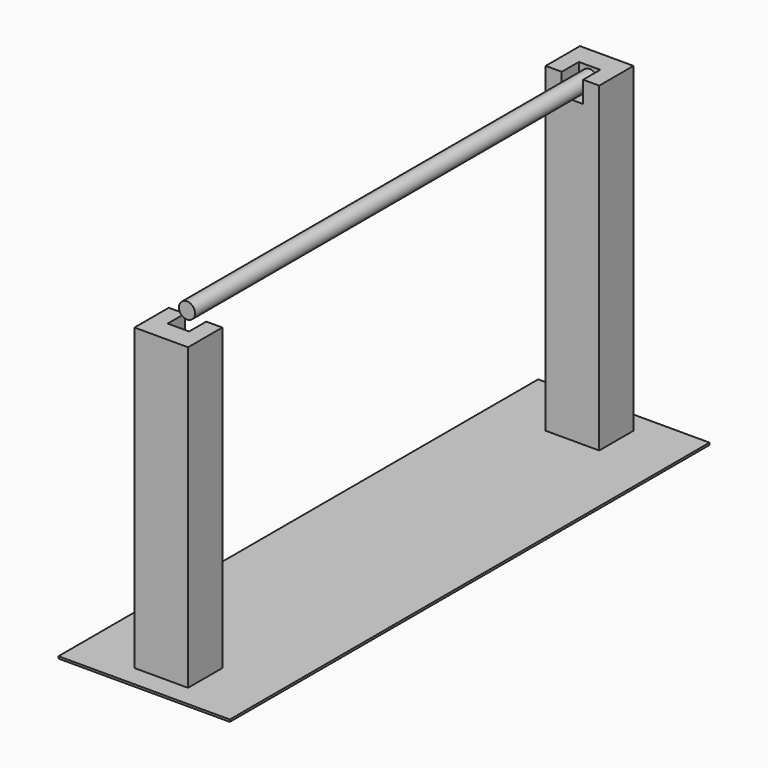
from build123d import *

# Parameters (mm, degrees)
F0_W      = 203.2
F0_H      = 711.2
F1_DEPTH  = 2.54
F2_W      = 63.5
F2_H      = 50.8
F3_DEPTH  = 355.6
F4_DEPTH  = 381
F5_W      = 25.4
F5_H      = 25.4
F6_DEPTH  = 25.4
F7_W      = 25.4
F7_H      = 25.4
F8_DEPTH  = 25.4
F9_R      = 9.525
F10_DEPTH = 596.9


with BuildPart() as f1:
    # F0 (on Top) → F1 (new body)
    with BuildSketch(Plane.XY):
        with Locations((101.6, 355.6)):
            Rectangle(F0_W, F0_H)
    extrude(amount=F1_DEPTH)

    # F2 (on face) → F3 (join)
    with BuildSketch(Plane.XY.offset(2.54)):
        with Locations((101.6, 50.8)):
            Rectangle(F2_W, F2_H)
    extrude(amount=F3_DEPTH)

    # F2 (on face) → F4 (join)
    with BuildSketch(Plane.XY.offset(2.54)):
        with Locations((101.6, 660.4)):
            Rectangle(F2_W, F2_H)
    extrude(amount=F4_DEPTH)

    # F5 (on face) → F6 (cut)
    with BuildSketch(Plane.XY.offset(358.14)):
        with Locations((101.6, 63.5)):
            Rectangle(F5_W, F5_H)
    extrude(amount=-F6_DEPTH, mode=Mode.SUBTRACT)

    # F7 (on face) → F8 (cut)
    with BuildSketch(Plane.XY.offset(383.54)):
        with Locations((101.6, 647.7)):
            Rectangle(F7_W, F7_H)
    extrude(amount=-F8_DEPTH, mode=Mode.SUBTRACT)


with BuildPart() as f10:
    # F9 (on face) → F10 (new body)
    with BuildSketch(Plane.XZ.offset(-660.4)):
        with Locations((101.6, 370.84)):
            Circle(F9_R)
    extrude(amount=F10_DEPTH)


solid = Compound([f1.part, f10.part])
